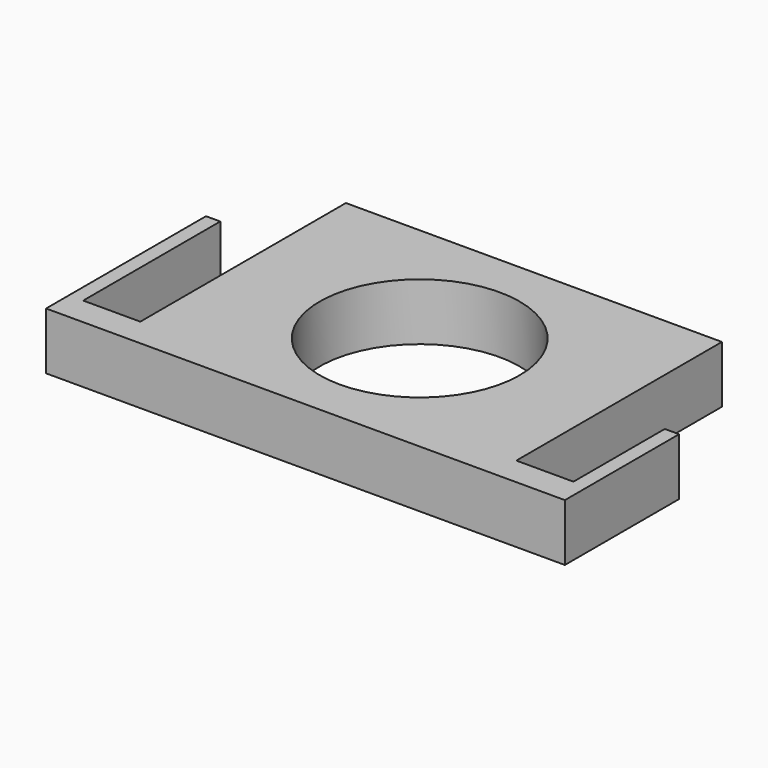
from build123d import *

# Parameters (mm, degrees)
F1_DEPTH = 20


with BuildPart() as f1:
    # F0 (on Top) → F1 (new body)
    with BuildSketch(Plane.XY):
        Polygon((-90.849426, 50), (-90.849426, 0), (0, 0), (90.849426, 0), (90.849426, 50), (85.849426, 50), (85.849426, 10), (75.849426, 10), (65.849426, 10), (65.849426, 70), (65.849426, 90), (65.849426, 100), (-65.849426, 100), (-65.849426, 90), (-65.849426, 70), (-65.849426, 10), (-75.849426, 10), (-85.849426, 10), (-85.849426, 50), (-85.849426, 70), (-90.849426, 70), align=None)
        with BuildLine():
            ThreePointArc((35, 50), (24.748737, 25.251263), (0, 15))
            ThreePointArc((0, 15), (-24.748737, 74.748737), (35, 50))
        make_face(mode=Mode.SUBTRACT)
    extrude(amount=F1_DEPTH)


solid = f1.part
